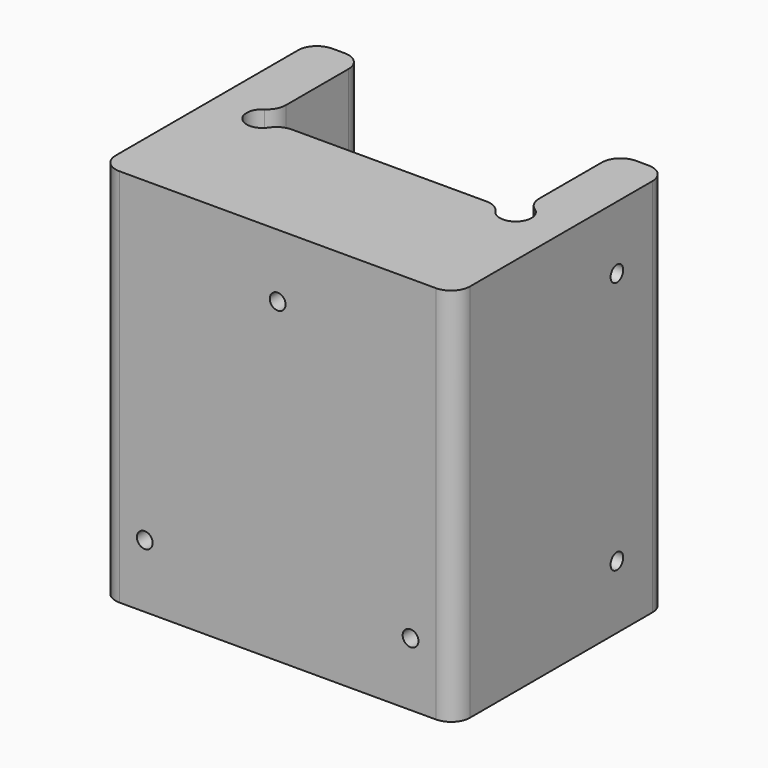
from build123d import *

# Parameters (mm, degrees)
F1_DEPTH = 30
F3_D     = 2.5
F5_D     = 2.5
F5_DEPTH = 21
F5_TIP   = 0.7510757738
F6_R     = 3
F7_R     = 2.5
F8_DEPTH = 60.001
F9_R     = 3


with BuildPart() as f1:
    # F0 (on Top) → F1 (new body, symmetric)
    with BuildSketch(Plane.XY):
        Polygon((-20, 21), (-28, 21), (-28, -21), (28, -21), (28, 21), (20, 21), (20, 1), (-20, 1), align=None)
    extrude(amount=F1_DEPTH, both=True)

    # F3 (through all)
    with Locations(Plane(origin=(-28, 0, 0), x_dir=(0, -1, 0), z_dir=(-1, 0, 0))):
        with Locations((-11, 20), (-11, -20)):
            Hole(F3_D / 2)

    # F5
    with Locations(Plane.XZ.offset(21)):
        with Locations((0, 20), (-21, -20), (21, -20)):
            Hole(F5_D / 2, depth=F5_DEPTH)
            with Locations((0, 0, -(F5_DEPTH + F5_TIP / 2))):  # 118° drill point
                Cone(0, F5_D / 2, F5_TIP, mode=Mode.SUBTRACT)

    # F6
    f6_edges = [f1.edges().sort_by_distance(p)[0] for p in [
        (-28, -21, 0),
        (28, -21, 0),
        (-28, 21, 0),
        (-20, 21, 0),
        (20, 21, 0),
        (28, 21, 0),
    ]]
    fillet(f6_edges, radius=F6_R)

    # F7 (on face) → F8 (cut, through all)
    with BuildSketch(Plane.XY.offset(30)):
        with Locations((-20, 1)):
            Circle(F7_R)
        with Locations((20, 1)):
            Circle(F7_R)
    extrude(amount=-F8_DEPTH, mode=Mode.SUBTRACT)

    # F9
    f9_edges = [f1.edges().sort_by_distance(p)[0] for p in [
        (-17.5, 1, 0),
        (-20, 3.5, 0),
        (17.5, 1, 0),
        (20, 3.5, 0),
    ]]
    fillet(f9_edges, radius=F9_R)


solid = f1.part
